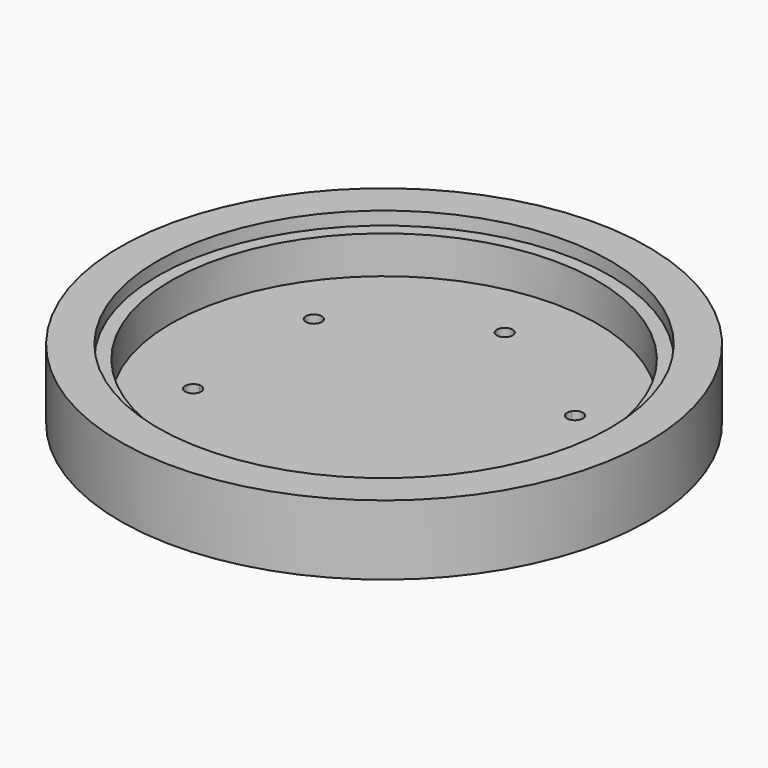
from build123d import *

# Parameters (mm, degrees)
F0_R     = 70
F0_R_2   = 60
F1_DEPTH = 3.5
F2_R     = 70
F2_R_2   = 56.5
F3_DEPTH = 5
F4_R     = 70
F4_R_2   = 56.5
F5_DEPTH = 5
F6_R     = 70
F7_DEPTH = 5


with BuildPart() as f1:
    # F0 (on Top) → F1 (new body)
    with BuildSketch(Plane.XY):
        Circle(F0_R)
        Circle(F0_R_2, mode=Mode.SUBTRACT)
    extrude(amount=F1_DEPTH)



with BuildPart() as f3:
    # F2 (on face) → F3 (new body)
    with BuildSketch(Plane(origin=(0, 0, -5), x_dir=(1, 0, 0), z_dir=(0, 0, -1))):
        Circle(F2_R)
        Circle(F2_R_2, mode=Mode.SUBTRACT)
    extrude(amount=F3_DEPTH)


with BuildPart() as f1_1:
    add(f1.part)

    add(f3.part)  # F5 merges F3
    # F4 (on face) → F5 (join)
    with BuildSketch(Plane(origin=(0, 0, 0), x_dir=(1, 0, 0), z_dir=(0, 0, -1))):
        Circle(F4_R)
        Circle(F4_R_2, mode=Mode.SUBTRACT)
    extrude(amount=F5_DEPTH)

    # F6 (on face) → F7 (join)
    with BuildSketch(Plane(origin=(0, 0, -10), x_dir=(1, 0, 0), z_dir=(0, 0, -1))):
        Circle(F6_R)
        with BuildLine():
            ThreePointArc((-32.822363, -21.05), (-36.459669, -21.05), (-34.641016, -17.9))
            ThreePointArc((-34.641016, -17.9), (-33.156092, -18.515076), (-32.541016, -20))
            ThreePointArc((-32.541016, -20), (-32.612572, -20.54352), (-32.822363, -21.05))
        make_face(mode=Mode.SUBTRACT)
        with BuildLine():
            ThreePointArc((2.1, -40), (-0.54352, -42.028444), (-1.818653, -38.95))
            ThreePointArc((-1.818653, -38.95), (0, -37.9), (1.818653, -38.95))
            ThreePointArc((1.818653, -38.95), (2.028444, -39.45648), (2.1, -40))
        make_face(mode=Mode.SUBTRACT)
        with BuildLine():
            ThreePointArc((36.741016, -20), (35.184536, -22.028444), (32.822363, -21.05))
            ThreePointArc((32.822363, -21.05), (32.822363, -18.95), (34.641016, -17.9))
            ThreePointArc((34.641016, -17.9), (36.12594, -18.515076), (36.741016, -20))
        make_face(mode=Mode.SUBTRACT)
        with BuildLine():
            ThreePointArc((-34.641016, 17.9), (-36.459669, 21.05), (-32.822363, 21.05))
            ThreePointArc((-32.822363, 21.05), (-32.612572, 20.54352), (-32.541016, 20))
            ThreePointArc((-32.541016, 20), (-33.156092, 18.515076), (-34.641016, 17.9))
        make_face(mode=Mode.SUBTRACT)
        with BuildLine():
            ThreePointArc((36.741016, 20), (36.12594, 18.515076), (34.641016, 17.9))
            ThreePointArc((34.641016, 17.9), (32.822363, 18.95), (32.822363, 21.05))
            ThreePointArc((32.822363, 21.05), (35.184536, 22.028444), (36.741016, 20))
        make_face(mode=Mode.SUBTRACT)
        with BuildLine():
            ThreePointArc((2.1, 40), (2.028444, 39.45648), (1.818653, 38.95))
            ThreePointArc((1.818653, 38.95), (0, 37.9), (-1.818653, 38.95))
            ThreePointArc((-1.818653, 38.95), (-0.54352, 42.028444), (2.1, 40))
        make_face(mode=Mode.SUBTRACT)
    extrude(amount=F7_DEPTH)


solid = f1_1.part
